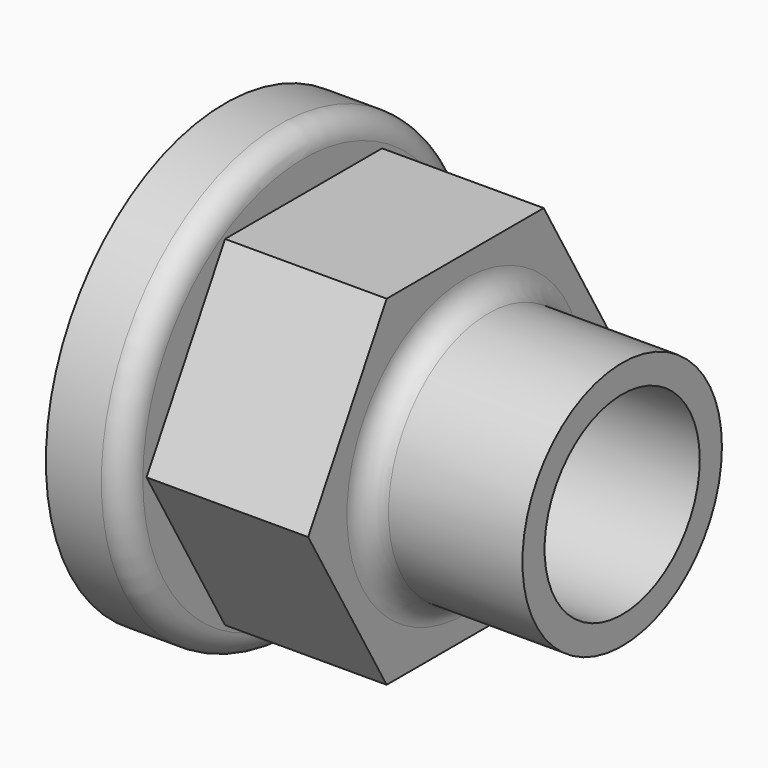
from build123d import *

# Parameters (mm, degrees)
F3_DEPTH = 7
F4_R     = 10.135693
F5_DEPTH = 13.801
F6_R     = 1
F7_R     = 1
F8_R     = 4.2
F9_DEPTH = 0.2


with BuildPart() as f1:
    # F0 (on Top) → F1 (revolve)
    with BuildSketch(Plane.XY):
        Polygon((0, 8.5), (0, 6.7), (7, 6.7), (7, 4.2), (15, 4.2), (15, 5.4), (8.2, 5.4), (8.2, 8.5), (1.2, 8.5), (1.2, 9.7), (-2.2, 9.7), (-2.2, 8.5), align=None)
    revolve(axis=Axis((9.6, 0, 0), (-1, 0, 0)))

    # F2 (on face) → F3 (cut)
    with BuildSketch(Plane(origin=(0, 0, 0), x_dir=(0, -1, 0), z_dir=(-1, 0, 0))):
        Polygon((3.983717, 6.9), (-3.983717, 6.9), (-7.967434, 0), (-3.983717, -6.9), (3.983717, -6.9), (7.967434, 0), align=None)
    extrude(amount=-F3_DEPTH, mode=Mode.SUBTRACT)

    # F4 (on face) → F5 (cut, through all)
    with BuildSketch(Plane.YZ.offset(1.2)):
        Circle(F4_R)
        Polygon((-8.5, 0), (-4.25, 7.361216), (4.25, 7.361216), (8.5, 0), (4.25, -7.361216), (-4.25, -7.361216), align=None, mode=Mode.SUBTRACT)
    extrude(amount=F5_DEPTH, mode=Mode.SUBTRACT)

    # F6
    f6_edges = [f1.edges().sort_by_distance(p)[0] for p in [
        (8.2, -5.4, 0),
    ]]
    fillet(f6_edges, radius=F6_R)

    # F7
    f7_edges = [f1.edges().sort_by_distance(p)[0] for p in [
        (1.2, -9.7, 0),
    ]]
    fillet(f7_edges, radius=F7_R)

    # F8 (on face) → F9 (join)
    with BuildSketch(Plane(origin=(7, 0, 0), x_dir=(0, -1, 0), z_dir=(-1, 0, 0))):
        Circle(F8_R)
    extrude(amount=-F9_DEPTH)


solid = f1.part
